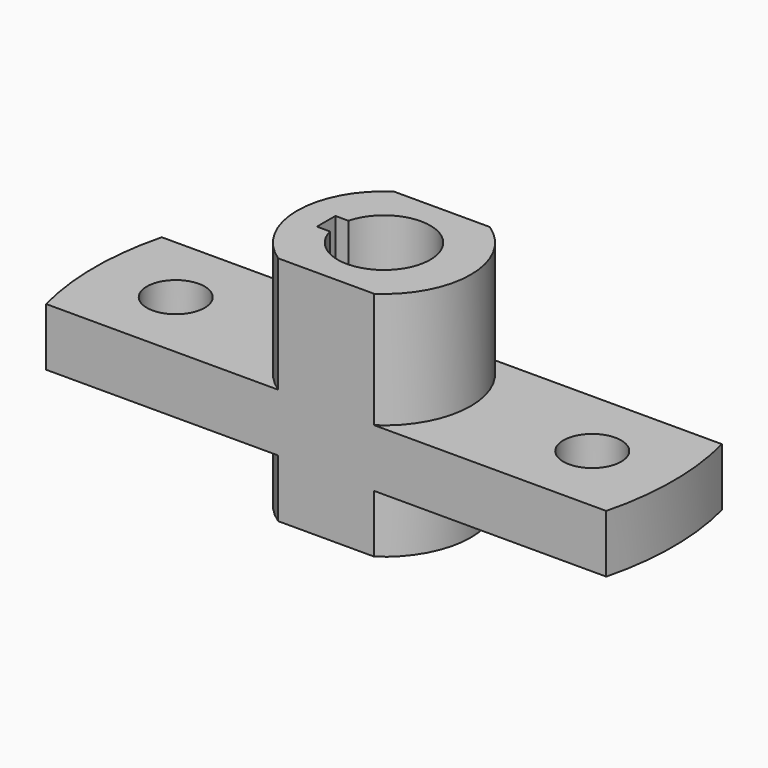
from build123d import *

# Parameters (mm, degrees)
F1_DEPTH      = 30
F1_DEPTH_BACK = 10
F0_R          = 5
F2_DEPTH      = 10


with BuildPart() as f1:
    # F0 (on Top) → F1 (new body, two sides)
    with BuildSketch(Plane.XY) as f1_sk:
        with BuildLine():
            Line((8.291562, 12.5), (-8.291562, 12.5))
            ThreePointArc((-8.291562, 12.5), (-15, 0), (-8.291562, -12.5))
            Line((-8.291562, -12.5), (8.291562, -12.5))
            ThreePointArc((8.291562, -12.5), (15, 0), (8.291562, 12.5))
        make_face()
        with BuildLine():
            ThreePointArc((-7.745967, 2), (8, 0), (-7.745967, -2))
            Line((-7.745967, -2), (-10, -2))
            Line((-10, -2), (-10, 2))
            Line((-10, 2), (-7.745967, 2))
        make_face(mode=Mode.SUBTRACT)
    extrude(amount=F1_DEPTH)
    extrude(f1_sk.sketch, amount=-F1_DEPTH_BACK)

    # F0 (on Top) → F2 (join)
    with BuildSketch(Plane.XY):
        with BuildLine():
            ThreePointArc((-8.291562, -12.5), (-15, 0), (-8.291562, 12.5))
            Line((-8.291562, 12.5), (-48.412292, 12.5))
            ThreePointArc((-48.412292, 12.5), (-50, 0), (-48.412292, -12.5))
            Line((-48.412292, -12.5), (-8.291562, -12.5))
        make_face()
        with Locations((-36, 0)):
            Circle(F0_R, mode=Mode.SUBTRACT)
        with BuildLine():
            Line((48.412292, 12.5), (8.291562, 12.5))
            ThreePointArc((8.291562, 12.5), (15, 0), (8.291562, -12.5))
            Line((8.291562, -12.5), (48.412292, -12.5))
            ThreePointArc((48.412292, -12.5), (50, 0), (48.412292, 12.5))
        make_face()
        with Locations((36, 0)):
            Circle(F0_R, mode=Mode.SUBTRACT)
    extrude(amount=F2_DEPTH)


solid = f1.part
